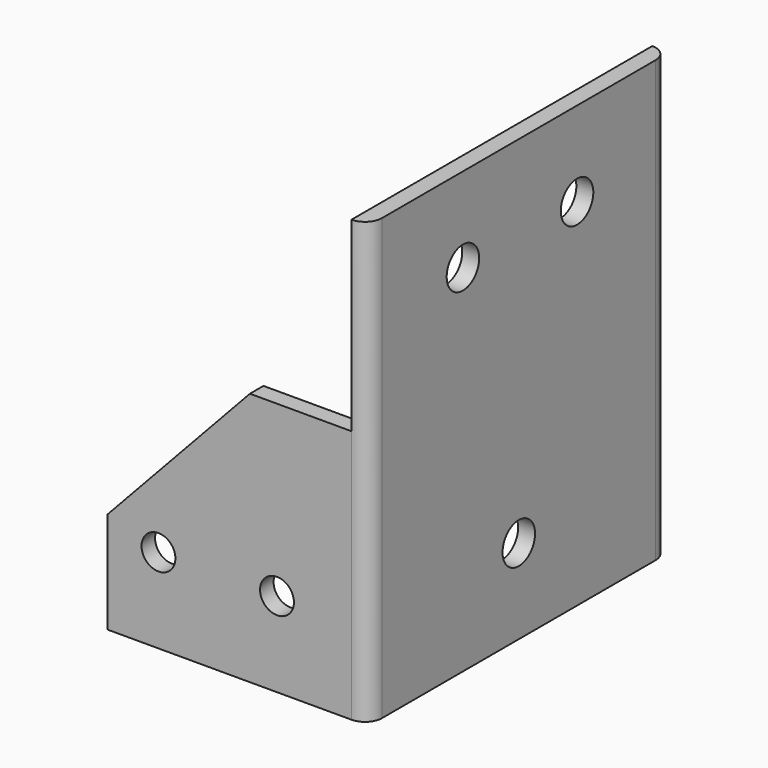
from build123d import *

# Parameters (mm, degrees)
F1_DEPTH = 130
F2_R     = 6
F3_DEPTH = 5.001
F4_R     = 5
F5_DEPTH = 111.001


with BuildPart() as f1:
    # F0 (on Top) → F1 (new body)
    with BuildSketch(Plane.XY):
        with BuildLine():
            Line((17.922193, 92.008901), (-54.077807, 92.008901))
            Line((-54.077807, 92.008901), (-54.077807, 87.008901))
            Line((-54.077807, 87.008901), (14.922193, 87.008901))
            ThreePointArc((14.922193, 87.008901), (17.043514, 86.130221), (17.922193, 84.008901))
            Line((17.922193, 84.008901), (17.922193, -10.991095))
            ThreePointArc((17.922193, -10.991095), (17.043514, -13.112415), (14.922193, -13.991095))
            Line((14.922193, -13.991095), (-54.077807, -13.991095))
            Line((-54.077807, -13.991095), (-54.077807, -18.991099))
            Line((-54.077807, -18.991099), (17.922193, -18.991099))
            ThreePointArc((17.922193, -18.991099), (21.457727, -17.526633), (22.922193, -13.991099))
            Line((22.922193, -13.991099), (22.922193, 87.008901))
            ThreePointArc((22.922193, 87.008901), (21.457727, 90.544435), (17.922193, 92.008901))
        make_face()
    extrude(amount=F1_DEPTH)

    # F2 (on face) → F3 (cut, through all)
    with BuildSketch(Plane(origin=(17.922193, 0, 0), x_dir=(0, -1, 0), z_dir=(-1, 0, 0))):
        with Locations((-15.887585, 105)):
            Circle(F2_R)
        with Locations((-36.508901, 25)):
            Circle(F2_R)
        with Locations((-58.008901, 105)):
            Circle(F2_R)
    extrude(amount=-F3_DEPTH, mode=Mode.SUBTRACT)

    # F4 (on face) → F5 (cut, through all)
    with BuildSketch(Plane(origin=(0, 92.008901, 0), x_dir=(-1, 0, 0), z_dir=(0, 1, 0))):
        with Locations((39.077807, 25)):
            Circle(F4_R)
        with Locations((4.077807, 25)):
            Circle(F4_R)
        Polygon((12.077807, 75), (54.077807, 30), (54.077807, 130), (-17.922193, 130), (-17.922193, 75), align=None)
    extrude(amount=-F5_DEPTH, mode=Mode.SUBTRACT)


solid = f1.part
